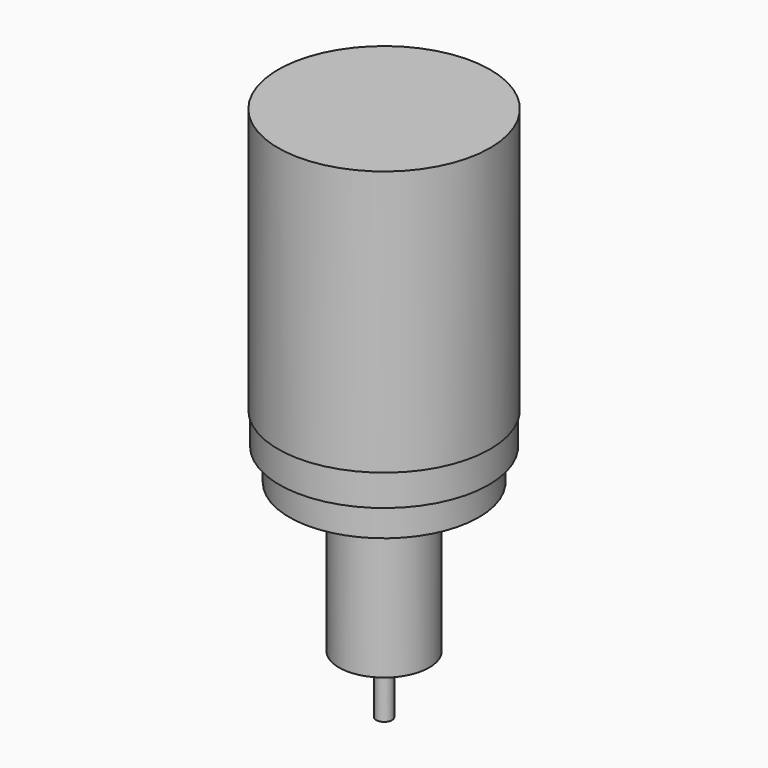
from build123d import *

# Parameters (mm, degrees)
SKETCH_R     = 40
PAD_DEPTH    = 100
SKETCH001_R  = 39.5
PAD001_DEPTH = 12
SKETCH002_R  = 35.75
PAD002_DEPTH = 12
SKETCH003_R  = 17
PAD003_DEPTH = 56
SKETCH004_R  = 3
PAD004_DEPTH = 22


with BuildPart() as part:
    # Sketch → Pad (new body)
    with BuildSketch(Plane.XY):
        Circle(SKETCH_R)
    extrude(amount=-PAD_DEPTH)

    # Sketch001 (on Face3 of Pad) → Pad001 (join)
    with BuildSketch(Plane(origin=(0, 0, -100), x_dir=(1, 0, 0), z_dir=(0, 0, -1))):
        Circle(SKETCH001_R)
    extrude(amount=PAD001_DEPTH)

    # Sketch002 (on Face5 of Pad001) → Pad002 (join)
    with BuildSketch(Plane(origin=(0, 0, -112), x_dir=(1, 0, 0), z_dir=(0, 0, -1))):
        Circle(SKETCH002_R)
    extrude(amount=PAD002_DEPTH)

    # Sketch003 (on Face7 of Pad002) → Pad003 (join)
    with BuildSketch(Plane(origin=(0, 0, -124), x_dir=(1, 0, 0), z_dir=(0, 0, -1))):
        Circle(SKETCH003_R)
    extrude(amount=PAD003_DEPTH)

    # Sketch004 (on Face9 of Pad003) → Pad004 (join)
    with BuildSketch(Plane(origin=(0, 0, -180), x_dir=(1, 0, 0), z_dir=(0, 0, -1))):
        Circle(SKETCH004_R)
    extrude(amount=PAD004_DEPTH)


solid = part.part
